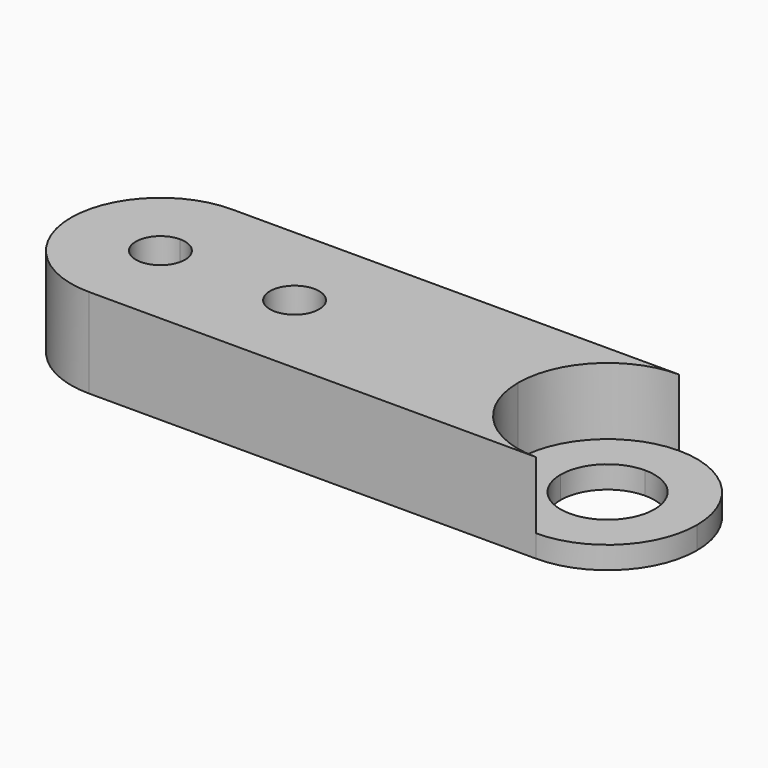
from build123d import *

# Parameters (mm, degrees)
F1_DEPTH = 4
F2_DEPTH = 3
F3_R     = 2.5
F4_DEPTH = 2


with BuildPart() as f1:
    # F0 (on Top) → F1 (new body)
    with BuildSketch(Plane.XY):
        with BuildLine():
            ThreePointArc((0, 1.1), (0.7778174593, 0.7778174593), (1.1, 0))
            Line((1.1, 0), (4, 0))
            ThreePointArc((4, 0), (2.8284271247, 2.8284271247), (0, 4))
            Line((0, 4), (0, 1.1))
        make_face()
        with BuildLine():
            Line((4, 0), (1.1, 0))
            ThreePointArc((1.1, 0), (-0.7778174593, -0.7778174593), (0, 1.1))
            Line((0, 1.1), (0, 4))
            ThreePointArc((0, 4), (-4, 0), (0, -4))
            ThreePointArc((0, -4), (2.8284271247, -2.8284271247), (4, 0))
        make_face()
        with BuildLine():
            ThreePointArc((0, 4), (2.8284271247, 2.8284271247), (4, 0))
            Line((4, 0), (4.9, 0))
            ThreePointArc((4.9, 0), (6, 1.1), (7.1, 0))
            Line((7.1, 0), (16, 0))
            ThreePointArc((16, 0), (17.1715728753, 2.8284271247), (20, 4))
            Line((20, 4), (0, 4))
        make_face()
        with BuildLine():
            Line((4.9, 0), (4, 0))
            ThreePointArc((4, 0), (2.8284271247, -2.8284271247), (0, -4))
            Line((0, -4), (20, -4))
            ThreePointArc((20, -4), (17.1715728753, -2.8284271247), (16, 0))
            Line((16, 0), (7.1, 0))
            ThreePointArc((7.1, 0), (6, -1.1), (4.9, 0))
        make_face()
        with BuildLine():
            Line((20, 2.1), (20, 4))
            ThreePointArc((20, 4), (17.1715728753, 2.8284271247), (16, 0))
            Line((16, 0), (17.9, 0))
            ThreePointArc((17.9, 0), (18.5150757595, 1.4849242405), (20, 2.1))
        make_face()
        with BuildLine():
            ThreePointArc((24, 0), (22.8284271247, 2.8284271247), (20, 4))
            Line((20, 4), (20, 2.1))
            ThreePointArc((20, 2.1), (21.4849242405, 1.4849242405), (22.1, 0))
            ThreePointArc((22.1, 0), (21.4849242405, -1.4849242405), (20, -2.1))
            Line((20, -2.1), (20, -4))
            ThreePointArc((20, -4), (22.8284271247, -2.8284271247), (24, 0))
        make_face()
        with BuildLine():
            ThreePointArc((16, 0), (17.1715728753, -2.8284271247), (20, -4))
            Line((20, -4), (20, -2.1))
            ThreePointArc((20, -2.1), (18.5150757595, -1.4849242405), (17.9, 0))
            Line((17.9, 0), (16, 0))
        make_face()
    extrude(amount=-F1_DEPTH)

    # F0 (on Top) → F2 (cut)
    with BuildSketch(Plane.XY):
        with BuildLine():
            ThreePointArc((16, 0), (17.1715728753, -2.8284271247), (20, -4))
            Line((20, -4), (20, -2.1))
            ThreePointArc((20, -2.1), (18.5150757595, -1.4849242405), (17.9, 0))
            Line((17.9, 0), (16, 0))
        make_face()
        with BuildLine():
            Line((20, 2.1), (20, 4))
            ThreePointArc((20, 4), (17.1715728753, 2.8284271247), (16, 0))
            Line((16, 0), (17.9, 0))
            ThreePointArc((17.9, 0), (18.5150757595, 1.4849242405), (20, 2.1))
        make_face()
        with BuildLine():
            ThreePointArc((24, 0), (22.8284271247, 2.8284271247), (20, 4))
            Line((20, 4), (20, 2.1))
            ThreePointArc((20, 2.1), (21.4849242405, 1.4849242405), (22.1, 0))
            ThreePointArc((22.1, 0), (21.4849242405, -1.4849242405), (20, -2.1))
            Line((20, -2.1), (20, -4))
            ThreePointArc((20, -4), (22.8284271247, -2.8284271247), (24, 0))
        make_face()
    extrude(amount=-F2_DEPTH, mode=Mode.SUBTRACT)

    # F3 (on face) → F4 (cut)
    with BuildSketch(Plane(origin=(0, 0, -4), x_dir=(1, 0, 0), z_dir=(0, 0, -1))):
        with Locations((6, 0)):
            Circle(F3_R)
        Circle(F3_R)
    extrude(amount=-F4_DEPTH, mode=Mode.SUBTRACT)


solid = f1.part
